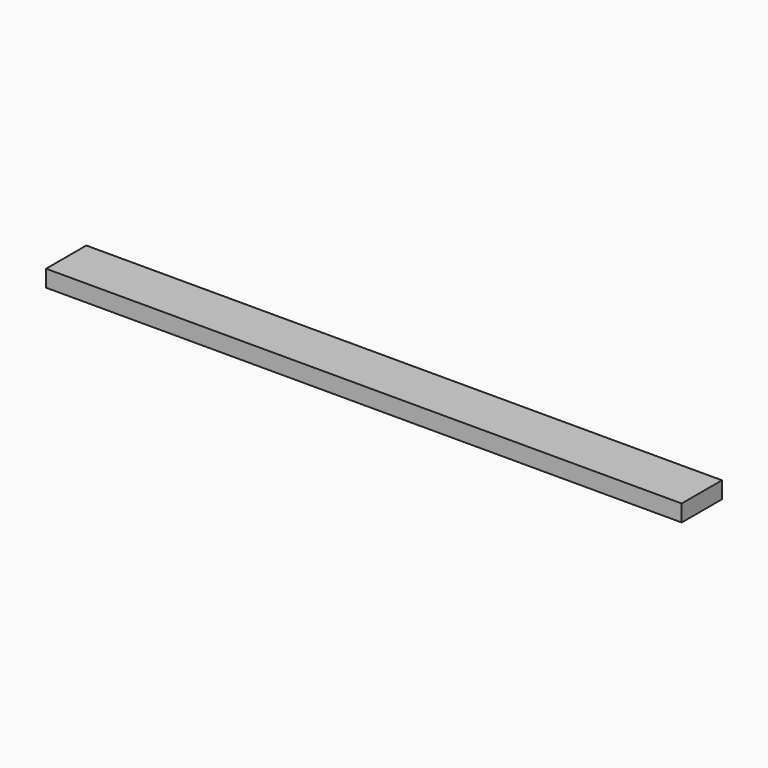
from build123d import *

# Parameters (mm, degrees)
SKETCH_W  = 963.4
SKETCH_H  = 76.2
PAD_DEPTH = 25.4


with BuildPart() as part:
    # Sketch → Pad (new body)
    with BuildSketch(Plane.XY):
        with Locations((481.7, -38.1)):
            Rectangle(SKETCH_W, SKETCH_H)
    extrude(amount=PAD_DEPTH)


solid = part.part
